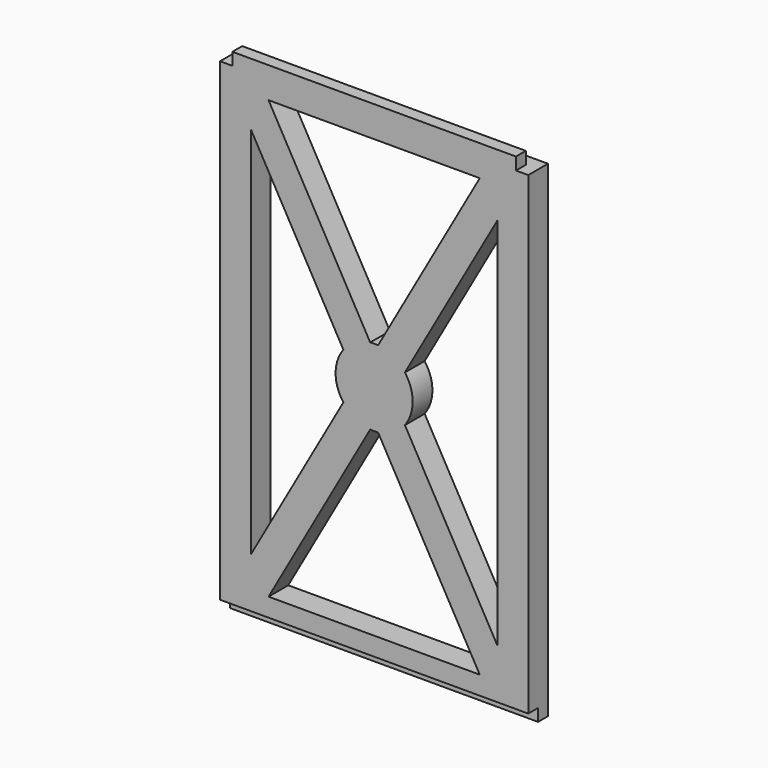
from build123d import *

# Parameters (mm, degrees)
F0_W     = 100
F0_H     = 161.8
F1_DEPTH = 8
F2_W     = 4
F2_H     = 4
F3_DEPTH = 134.44841
F4_W     = 4
F4_H     = 4
F5_DEPTH = 4


with BuildPart() as f1:
    # F0 (on Front) → F1 (new body)
    with BuildSketch(Plane.XZ):
        with Locations((50, 80.9)):
            Rectangle(F0_W, F0_H)
        with BuildLine():
            Line((84.259152, 10), (15.740848, 10))
            Line((15.740848, 10), (48.725419, 68.465152))
            ThreePointArc((48.725419, 68.465152), (50, 68.4), (51.274581, 68.465152))
            Line((51.274581, 68.465152), (84.259152, 10))
        make_face(mode=Mode.SUBTRACT)
        with BuildLine():
            Line((40.015904, 73.378842), (10, 20.175653))
            Line((10, 20.175653), (10, 141.624347))
            Line((10, 141.624347), (40.015904, 88.421158))
            ThreePointArc((40.015904, 88.421158), (37.5, 80.9), (40.015904, 73.378842))
        make_face(mode=Mode.SUBTRACT)
        with BuildLine():
            Line((90, 141.624347), (90, 20.175653))
            Line((90, 20.175653), (59.984096, 73.378842))
            ThreePointArc((59.984096, 73.378842), (62.5, 80.9), (59.984096, 88.421158))
            Line((59.984096, 88.421158), (90, 141.624347))
        make_face(mode=Mode.SUBTRACT)
        with BuildLine():
            Line((15.740848, 151.8), (84.259152, 151.8))
            Line((84.259152, 151.8), (51.274581, 93.334848))
            ThreePointArc((51.274581, 93.334848), (50, 93.4), (48.725419, 93.334848))
            Line((48.725419, 93.334848), (15.740848, 151.8))
        make_face(mode=Mode.SUBTRACT)
    extrude(amount=F1_DEPTH)

    # F2 (on face) → F3 (cut)
    with BuildSketch(Plane(origin=(0, 0, 0), x_dir=(0, -1, 0), z_dir=(-1, 0, 0))):
        with Locations((2, 159.8)):
            Rectangle(F2_W, F2_H)
        with Locations((6, 2)):
            Rectangle(F2_W, F2_H)
    extrude(amount=-F3_DEPTH, mode=Mode.SUBTRACT)

    # F4 (on face) → F5 (cut)
    with BuildSketch(Plane.XY.offset(161.8)):
        with Locations((98, -6)):
            Rectangle(F4_W, F4_H)
        with Locations((2, -6)):
            Rectangle(F4_W, F4_H)
    extrude(amount=-F5_DEPTH, mode=Mode.SUBTRACT)


solid = f1.part
